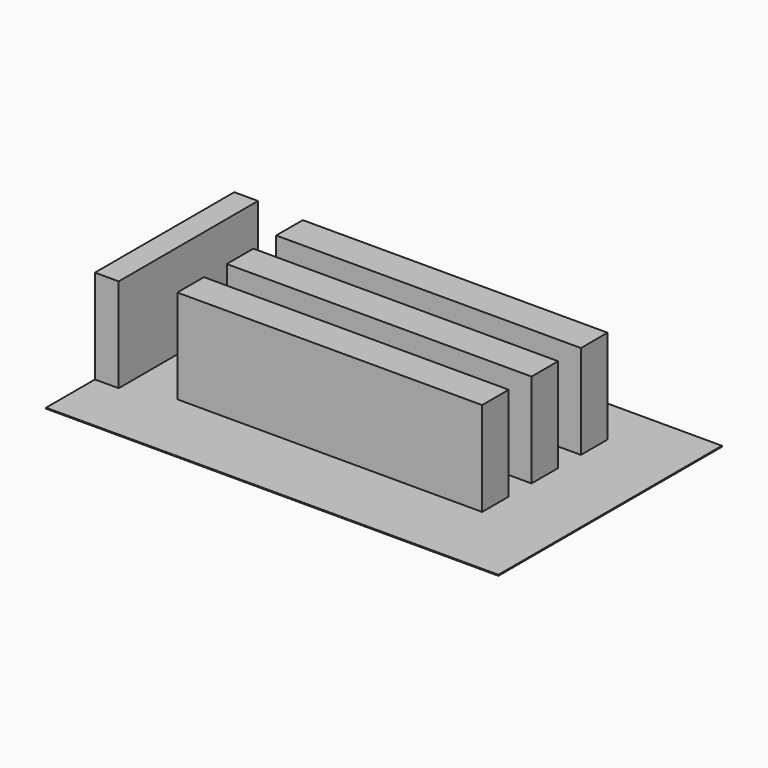
from build123d import *

# Parameters (mm, degrees)
F0_W     = 81.464736
F0_H     = 8.89
F0_W_2   = 6.35
F0_H_2   = 46.551276
F1_DEPTH = 25.4
F2_DEPTH = 0.254


with BuildPart() as f1:
    # F0 (on Top) → F1 (new body)
    with BuildSketch(Plane.XY):
        with Locations((-0.66964, 20.169908)):
            Rectangle(F0_W, F0_H)
        with Locations((-57.277008, 2.26291)):
            Rectangle(F0_W_2, F0_H_2)
        with Locations((-0.66964, 3.659908)):
            Rectangle(F0_W, F0_H)
        with Locations((-0.66964, -12.850092)):
            Rectangle(F0_W, F0_H)
    extrude(amount=F1_DEPTH)


with BuildPart() as f2:
    # F0 (on Top) → F2 (new body)
    with BuildSketch(Plane.XY):
        Polygon((60.452008, -37.338001), (60.452008, 37.338001), (-60.452008, 37.338001), (-60.452008, 25.538548), (-54.102008, 25.538548), (-54.102008, -21.012728), (-60.452008, -21.012728), (-60.452008, -37.338001), align=None)
        with Locations((-0.66964, -12.850092)):
            Rectangle(F0_W, F0_H, mode=Mode.SUBTRACT)
        with Locations((-0.66964, 3.659908)):
            Rectangle(F0_W, F0_H, mode=Mode.SUBTRACT)
        with Locations((-0.66964, 20.169908)):
            Rectangle(F0_W, F0_H, mode=Mode.SUBTRACT)
    extrude(amount=F2_DEPTH)


solid = Compound([f1.part, f2.part])
